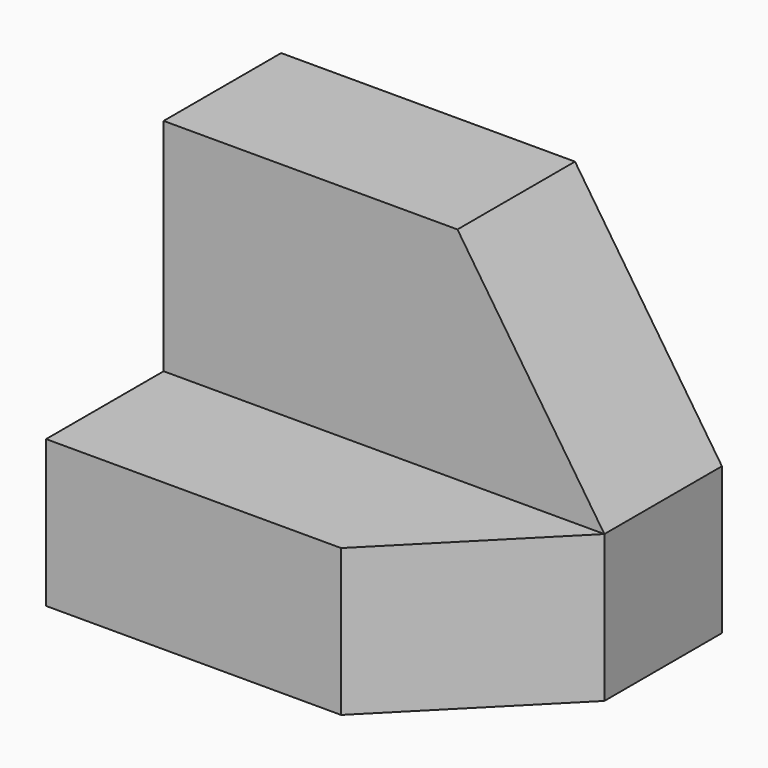
from build123d import *

# Parameters (mm, degrees)
F0_W     = 38.1
F0_H     = 31.75
F1_DEPTH = 25.4
F2_W     = 38.1
F2_H     = 12.7
F3_DEPTH = 19.05
F5_DEPTH = 12.7
F7_DEPTH = 12.7


with BuildPart() as f1:
    # F0 (on Front) → F1 (new body)
    with BuildSketch(Plane.XZ):
        with Locations((19.05, 15.875)):
            Rectangle(F0_W, F0_H)
    extrude(amount=F1_DEPTH)

    # F2 (on face) → F3 (cut)
    with BuildSketch(Plane.XY.offset(31.75)):
        with Locations((19.05, -19.05)):
            Rectangle(F2_W, F2_H)
    extrude(amount=-F3_DEPTH, mode=Mode.SUBTRACT)

    # F4 (on face) → F5 (cut)
    with BuildSketch(Plane.XY.offset(12.7)):
        Polygon((38.1, -12.7), (25.501676, -25.4), (38.1, -25.4), align=None)
    extrude(amount=-F5_DEPTH, mode=Mode.SUBTRACT)

    # F6 (on face) → F7 (cut)
    with BuildSketch(Plane.XZ.offset(12.7)):
        Polygon((38.1, 31.75), (25.4, 31.75), (38.1, 12.7), align=None)
    extrude(amount=-F7_DEPTH, mode=Mode.SUBTRACT)


solid = f1.part
